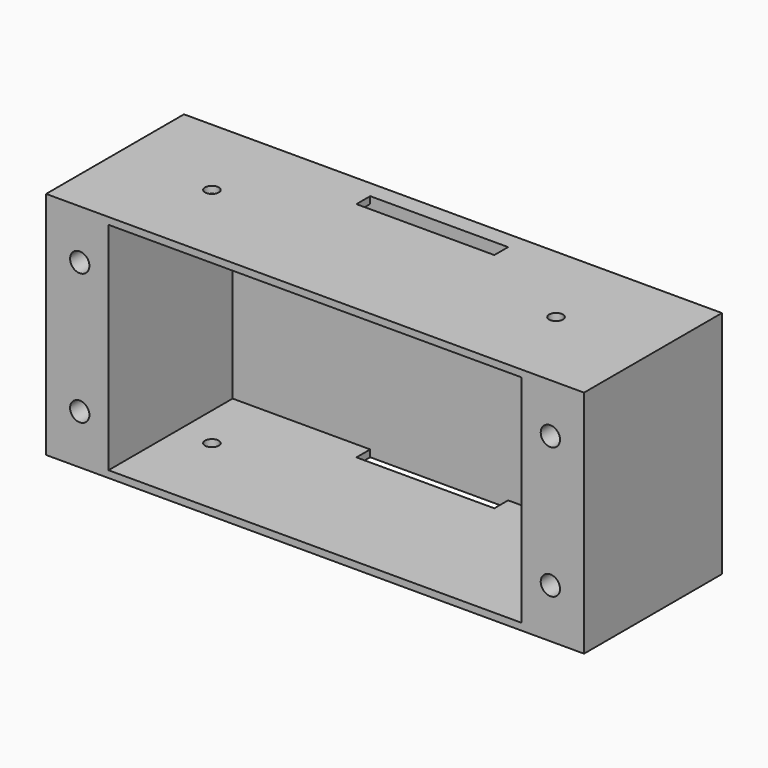
from build123d import *

# Parameters (mm, degrees)
F1_W     = 156.05
F1_H     = 66.675
F2_DEPTH = 50
F3_D     = 5.6
F3_DEPTH = 20
F3_TIP   = 1.6824097333
F4_W     = 119.824
F4_H     = 62.675
F5_DEPTH = 45
F6_W     = 40
F6_H     = 5
F7_DEPTH = 66.676
F9_D     = 4


with BuildPart() as f2:
    # F1 (on Front) → F2 (new body)
    with BuildSketch(Plane.XZ):
        Rectangle(F1_W, F1_H)
    extrude(amount=-F2_DEPTH)

    # F3
    with Locations(Plane.XZ):
        with Locations((-68.262, 19.0495), (-68.262, -19.0495), (68.262, -19.0495), (68.262, 19.0495)):
            Hole(F3_D / 2, depth=F3_DEPTH)
            with Locations((0, 0, -(F3_DEPTH + F3_TIP / 2))):  # 118° drill point
                Cone(0, F3_D / 2, F3_TIP, mode=Mode.SUBTRACT)

    # F4 (on face) → F5 (cut)
    with BuildSketch(Plane.XZ):
        Rectangle(F4_W, F4_H)
    extrude(amount=-F5_DEPTH, mode=Mode.SUBTRACT)

    # F6 (on face) → F7 (cut, through all)
    with BuildSketch(Plane(origin=(0, 0, -33.3375), x_dir=(1, 0, 0), z_dir=(0, 0, -1))):
        with Locations((0, -42.5)):
            Rectangle(F6_W, F6_H)
    extrude(amount=-F7_DEPTH, mode=Mode.SUBTRACT)

    # F9 (through all)
    with Locations(Plane(origin=(0, 0, -33.3375), x_dir=(1, 0, 0), z_dir=(0, 0, -1))):
        with Locations((-49.912, -25), (49.912, -25)):
            Hole(F9_D / 2)


solid = f2.part
